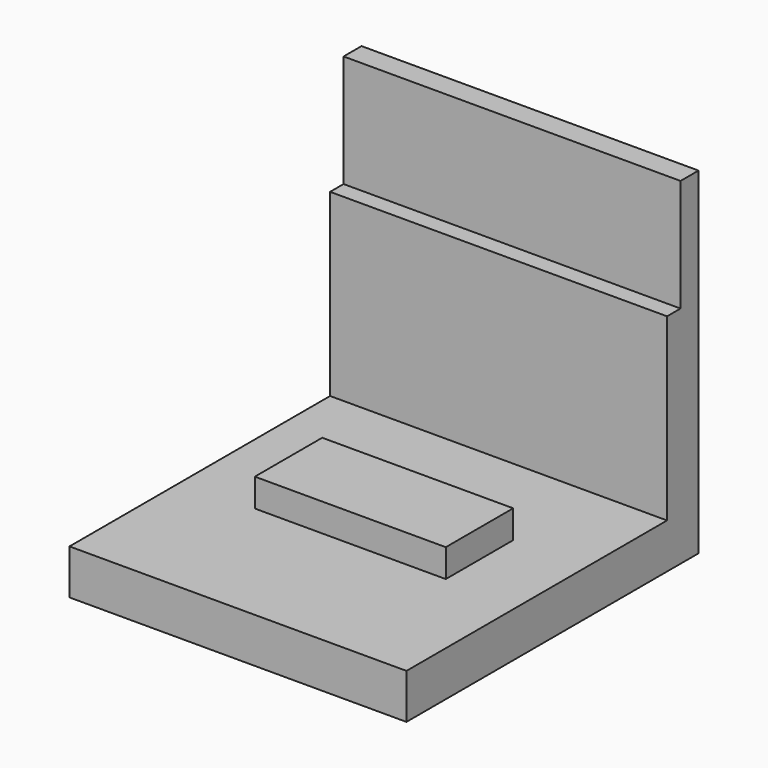
from build123d import *

# Parameters (mm, degrees)
F0_W     = 12
F0_H     = 1.4
F1_DEPTH = 12
F0_H_2   = 11.6
F0_W_2   = 6.8
F0_H_3   = 3
F2_DEPTH = 1.6
F3_DEPTH = 2.6
F4_W     = 12
F4_H     = 4
F5_DEPTH = 0.6


with BuildPart() as f1:
    # F0 (on Top) → F1 (new body)
    with BuildSketch(Plane.XY):
        with Locations((-6, 12.3)):
            Rectangle(F0_W, F0_H)
    extrude(amount=F1_DEPTH)

    # F0 (on Top) → F2 (join)
    with BuildSketch(Plane.XY):
        with Locations((-6, 5.8)):
            Rectangle(F0_W, F0_H_2)
        with Locations((-6, 6.5)):
            Rectangle(F0_W_2, F0_H_3, mode=Mode.SUBTRACT)
    extrude(amount=F2_DEPTH)

    # F0 (on Top) → F3 (join)
    with BuildSketch(Plane.XY):
        with Locations((-6, 6.5)):
            Rectangle(F0_W_2, F0_H_3)
    extrude(amount=F3_DEPTH)

    # F4 (on face) → F5 (cut)
    with BuildSketch(Plane.XZ.offset(-11.6)):
        with Locations((-6, 10)):
            Rectangle(F4_W, F4_H)
    extrude(amount=-F5_DEPTH, mode=Mode.SUBTRACT)


solid = f1.part
